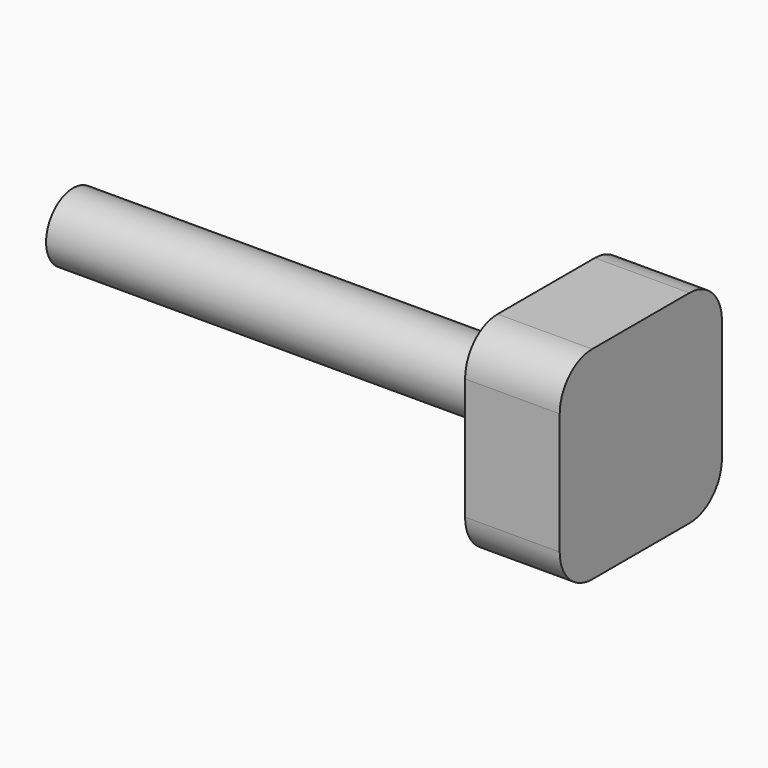
from build123d import *

# Parameters (mm, degrees)
SKETCH145_R             = 2.5
PAD075_DEPTH            = 42
SKETCH144_W             = 15
SKETCH144_H             = 15
PAD076_DEPTH            = 7
FILLET003_R             = 3
BODY043_PLACEMENT_ANGLE = -90


with BuildPart() as part:
    # Sketch145 → Pad075 (new body)
    with BuildSketch(Plane.XZ):
        Circle(SKETCH145_R)
    extrude(amount=-PAD075_DEPTH)

    # Sketch144 (on Face3 of Pad075) → Pad076 (join)
    with BuildSketch(Plane(origin=(0, 42, 0), x_dir=(1, 0, 0), z_dir=(0, 1, 0))):
        Rectangle(SKETCH144_W, SKETCH144_H)
    extrude(amount=-PAD076_DEPTH)

    # Fillet003
    fillet003_edges = [part.edges().sort_by_distance(p)[0] for p in [
        (7.5, 38.5, -7.5),
        (7.5, 38.5, 7.5),
        (-7.5, 38.5, 7.5),
        (-7.5, 38.5, -7.5),
    ]]
    fillet(fillet003_edges, radius=FILLET003_R)


with BuildPart() as part_1:
    # Body043 placement: moved
    add(part.part.moved(Location((17.75, 0, 150))).rotate(Axis((17.75, 0, 150), (0, 0, 1)), BODY043_PLACEMENT_ANGLE))


solid = part_1.part
